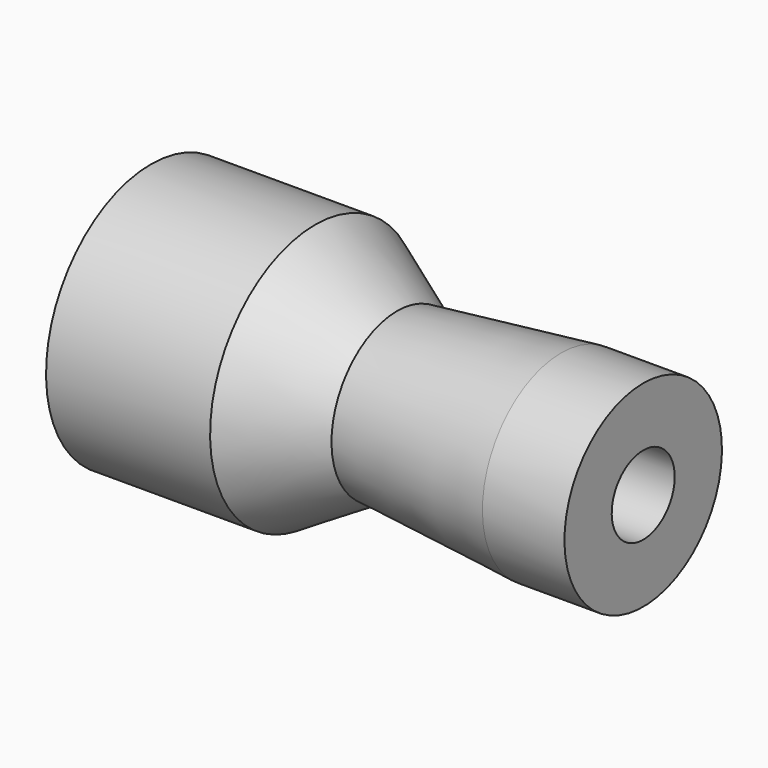
from build123d import *

# Parameters (mm, degrees)
F2_DEPTH = 25


with BuildPart() as f1:
    # F0 (on Front) → F1 (revolve)
    with BuildSketch(Plane.XZ):
        Polygon((0, 40), (0, 12), (125, 12), (125, 30), (75, 25), (50, 40), align=None)
    revolve(axis=Axis((34.2099070549, 0, 0), (1, 0, 0)))

    # F2 (add): a face of the model
    f2_faces = [f1.faces().sort_by_distance(p)[0] for p in [
        (125, 0, -12.8485281374),
    ]]
    extrude(f2_faces, amount=F2_DEPTH)


solid = f1.part
